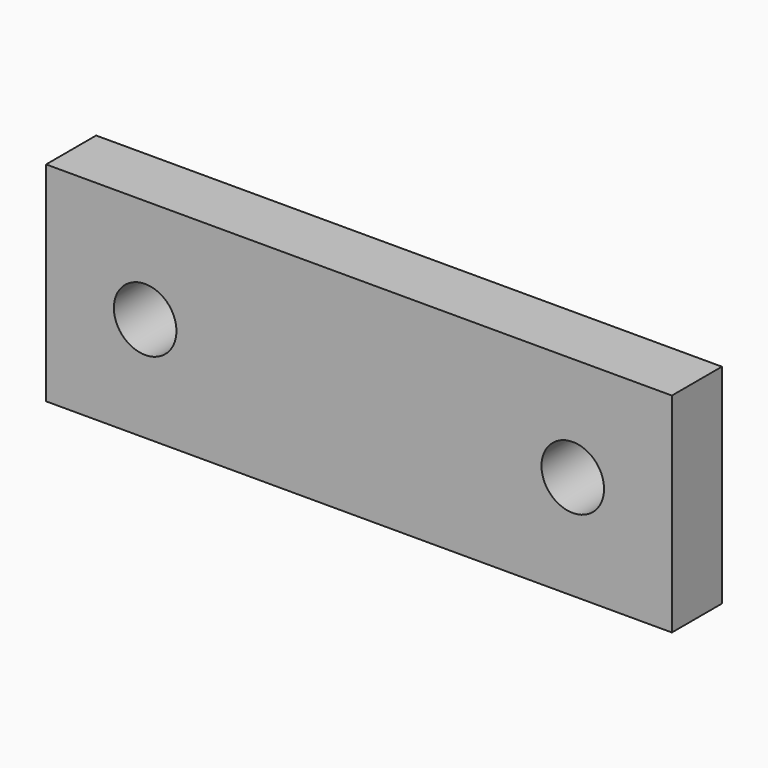
from build123d import *

# Parameters (mm, degrees)
F0_W     = 9
F0_H     = 1.5
F1_DEPTH = 10
F3_R     = 1.5
F4_DEPTH = 3
F5_DEPTH = 3.001


with BuildPart() as f1:
    # F0 (on Top) → F1 (new body)
    with BuildSketch(Plane.XY):
        Polygon((4.5, 23.5), (4.5, 22), (15, 22), (15, 25), (-15, 25), (-15, 22), (-4.5, 22), (-4.5, 23.5), align=None)
        with Locations((0, 22.75)):
            Rectangle(F0_W, F0_H)
    extrude(amount=F1_DEPTH)

    # F3 (on offset) → F4 (cut, through all)
    with BuildSketch(Plane(origin=(0, 25, 0), x_dir=(-1, 0, 0), z_dir=(0, 1, 0))):
        with Locations((10.25, 5)):
            Circle(F3_R)
        with Locations((-10.25, 5)):
            Circle(F3_R)
    extrude(amount=-F4_DEPTH, mode=Mode.SUBTRACT)

    # F3 (on offset) → F5 (cut, through all)
    with BuildSketch(Plane(origin=(0, 25, 0), x_dir=(-1, 0, 0), z_dir=(0, 1, 0))):
        with Locations((-22.25, 5)):
            Circle(F3_R)
    extrude(amount=-F5_DEPTH, mode=Mode.SUBTRACT)


solid = f1.part
